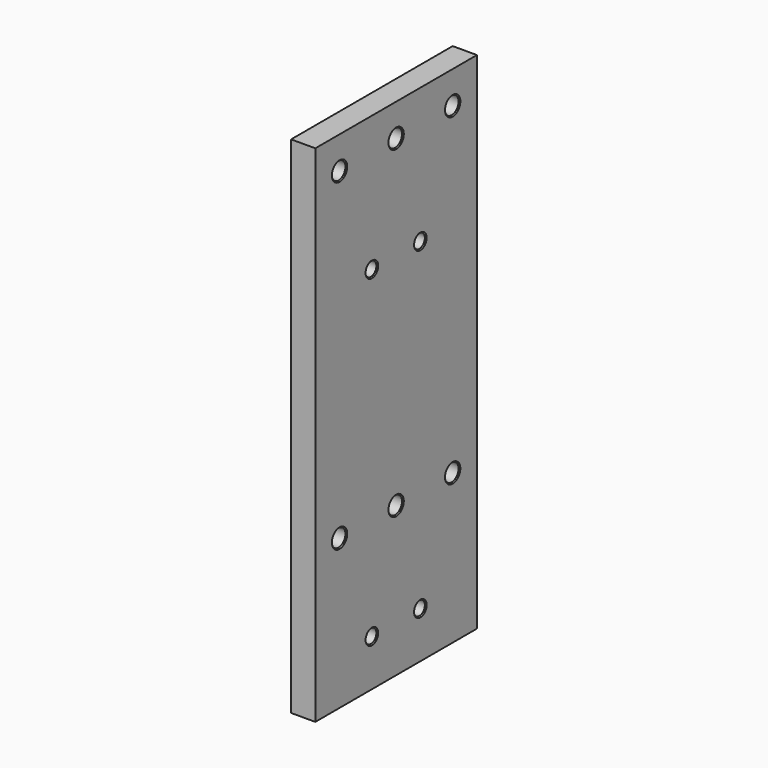
from build123d import *

# Parameters (mm, degrees)
F0_W     = 100
F0_H     = 250
F0_R     = 3.4
F0_R_2   = 4.25
F1_DEPTH = 6
F2_SIZE  = 0.5


with BuildPart() as f1:
    # F0 (on Right) → F1 (new body, symmetric)
    with BuildSketch(Plane.YZ):
        Rectangle(F0_W, F0_H)
        with Locations((-15, -102)):
            Circle(F0_R, mode=Mode.SUBTRACT)
        with Locations((-35, -51)):
            Circle(F0_R_2, mode=Mode.SUBTRACT)
        with Locations((15, -102)):
            Circle(F0_R, mode=Mode.SUBTRACT)
        with Locations((0, -51)):
            Circle(F0_R_2, mode=Mode.SUBTRACT)
        with Locations((35, -51)):
            Circle(F0_R_2, mode=Mode.SUBTRACT)
        with Locations((-15, 58)):
            Circle(F0_R, mode=Mode.SUBTRACT)
        with Locations((-35, 109)):
            Circle(F0_R_2, mode=Mode.SUBTRACT)
        with Locations((15, 58)):
            Circle(F0_R, mode=Mode.SUBTRACT)
        with Locations((0, 109)):
            Circle(F0_R_2, mode=Mode.SUBTRACT)
        with Locations((35, 109)):
            Circle(F0_R_2, mode=Mode.SUBTRACT)
    extrude(amount=F1_DEPTH, both=True)

    # F2
    f2_edges = [f1.edges().sort_by_distance(p)[0] for p in [
        (6, -39.25, 109),
        (0, -30.75, 109),
        (-6, -39.25, 109),
        (6, -4.25, 109),
        (0, 4.25, 109),
        (-6, -4.25, 109),
        (6, 30.75, 109),
        (0, 39.25, 109),
        (-6, 30.75, 109),
        (6, 30.75, -51),
        (0, 39.25, -51),
        (-6, 30.75, -51),
        (6, -4.25, -51),
        (0, 4.25, -51),
        (-6, -4.25, -51),
        (6, -39.25, -51),
        (0, -30.75, -51),
        (-6, -39.25, -51),
        (6, -18.4, 58),
        (0, -11.6, 58),
        (-6, -18.4, 58),
        (6, 11.6, 58),
        (0, 18.4, 58),
        (-6, 11.6, 58),
        (6, -18.4, -102),
        (0, -11.6, -102),
        (-6, -18.4, -102),
        (6, 11.6, -102),
        (0, 18.4, -102),
        (-6, 11.6, -102),
    ]]
    chamfer(f2_edges, length=F2_SIZE)


solid = f1.part
